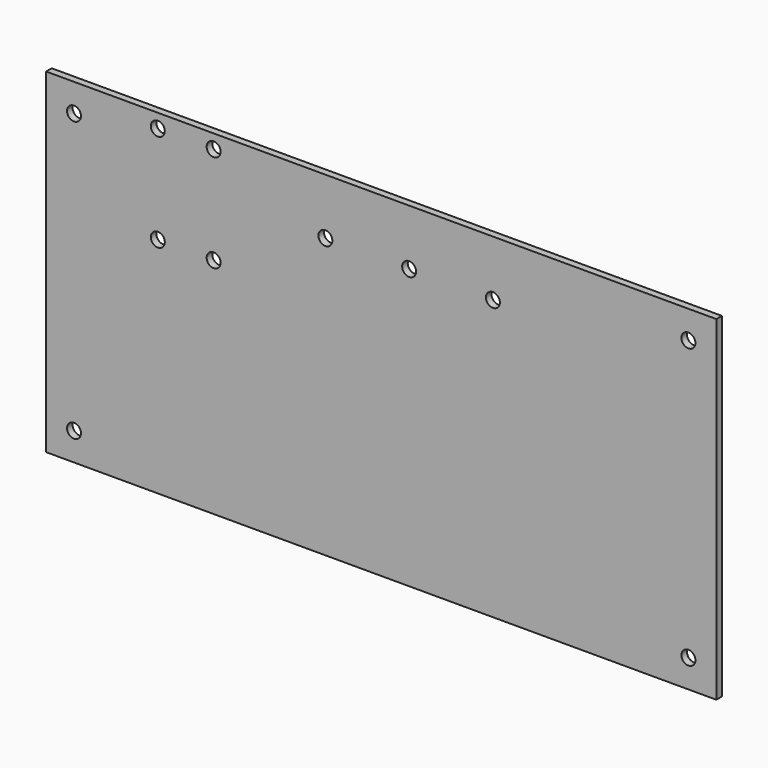
from build123d import *

# Parameters (mm, degrees)
F0_W     = 609.6
F0_H     = 304.8
F2_DEPTH = 6.35
F1_D     = 12.7


with BuildPart() as f2:
    # F0 (on Front) → F2 (new body)
    with BuildSketch(Plane.XZ):
        Rectangle(F0_W, F0_H)
    extrude(amount=F2_DEPTH)

    # F1 (through all)
    with Locations(Plane(origin=(0, 0, 0), x_dir=(1, 0, 0), z_dir=(0, 1, 0))):
        with Locations((101.6, -101.6), (25.4, -101.6), (-50.8, -101.6), (-279.4, 127), (-279.4, -127), (279.4, 127), (279.4, -127), (-203.2, -50.8), (-152.4, -50.8), (-152.4, -139.7), (-203.2, -139.7)):
            Hole(F1_D / 2)


solid = f2.part
